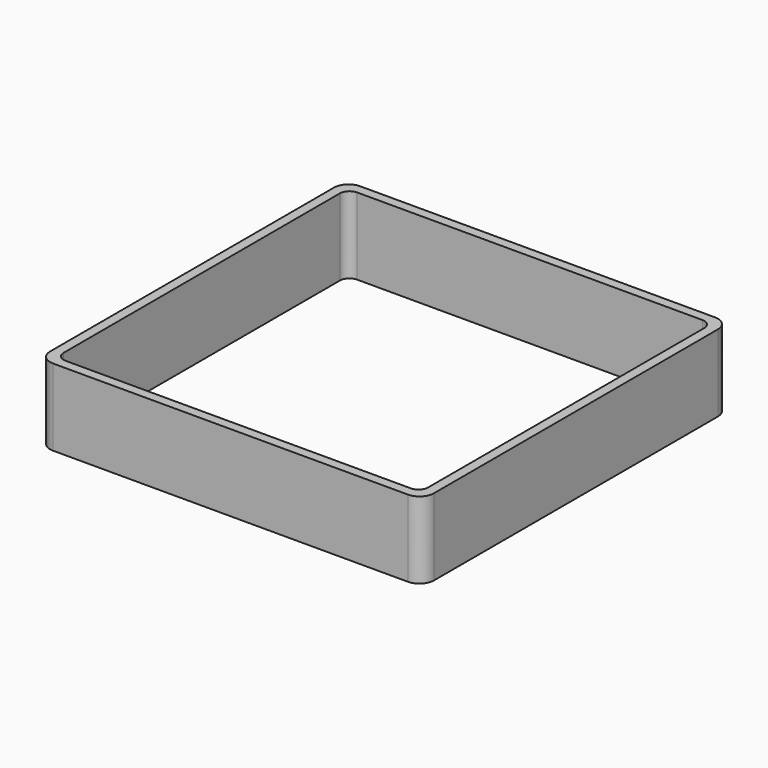
from build123d import *

# Parameters (mm, degrees)
EXTRUDE_DEPTH = 50


with BuildPart() as part:
    # Sketch → Extrude (new body)
    with BuildSketch(Plane.XY):
        with BuildLine():
            Line((-115.55, 125), (115.55, 125))
            ThreePointArc((125, 115.55), (122.232159, 122.232159), (115.55, 125))
            Line((125, 115.55), (125, -115.55))
            ThreePointArc((115.55, -125), (122.232159, -122.232159), (125, -115.55))
            Line((115.55, -125), (-115.55, -125))
            ThreePointArc((-125, -115.55), (-122.232159, -122.232159), (-115.55, -125))
            Line((-125, -115.55), (-125, 115.55))
            ThreePointArc((-115.55, 125), (-122.232159, 122.232159), (-125, 115.55))
        make_face()
        with BuildLine():
            Line((-112.4, 118.7), (112.4, 118.7))
            ThreePointArc((118.7, 112.4), (116.854773, 116.854773), (112.4, 118.7))
            Line((118.7, 112.4), (118.7, -112.4))
            ThreePointArc((112.4, -118.7), (116.854773, -116.854773), (118.7, -112.4))
            Line((112.4, -118.7), (-112.4, -118.7))
            ThreePointArc((-118.7, -112.4), (-116.854773, -116.854773), (-112.4, -118.7))
            Line((-118.7, -112.4), (-118.7, 112.4))
            ThreePointArc((-112.4, 118.7), (-116.854773, 116.854773), (-118.7, 112.4))
        make_face(mode=Mode.SUBTRACT)
    extrude(amount=EXTRUDE_DEPTH)


solid = part.part
